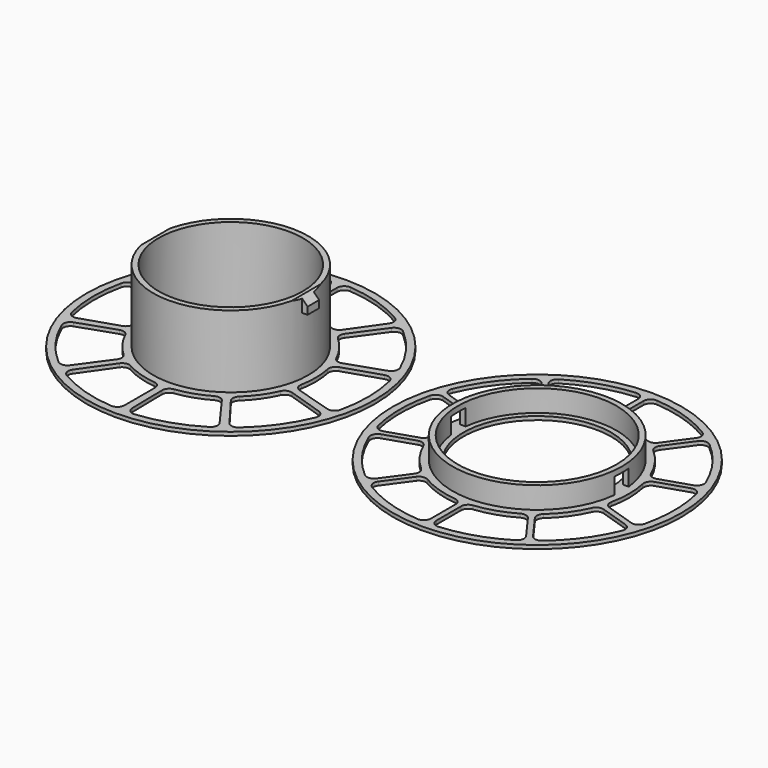
from build123d import *

# Parameters (mm, degrees)
F0_R      = 40
F0_R_2    = 20
F1_DEPTH  = 1
F2_R      = 21.5
F2_R_2    = 20
F3_DEPTH  = 20
F4_W      = 1.5
F4_H      = 4
F5_DEPTH  = 4
F6_SIZE   = 2
F7_R      = 40
F7_R_2    = 22
F8_DEPTH  = 1
F9_R      = 23.5
F9_R_2    = 22
F10_DEPTH = 6
F11_W     = 47
F11_H     = 5
F12_DEPTH = 4.5
F14_DEPTH = 5
F15_R     = 2
F16_COUNT = 10
F16_ANGLE = 324
F19_DEPTH = 5
F20_R     = 2
F21_COUNT = 10
F21_ANGLE = 324
F23_R     = 22
F23_R_2   = 20.5
F24_DEPTH = 1


with BuildPart() as f1:
    # F0 (on Top) → F1 (new body)
    with BuildSketch(Plane.XY):
        Circle(F0_R)
        Circle(F0_R_2, mode=Mode.SUBTRACT)
    extrude(amount=F1_DEPTH)

    # F2 (on face) → F3 (join)
    with BuildSketch(Plane.XY.offset(1)):
        Circle(F2_R)
        Circle(F2_R_2, mode=Mode.SUBTRACT)
    extrude(amount=F3_DEPTH)

    # F4 (on face) → F5 (join)
    with BuildSketch(Plane.XY.offset(21)):
        with Locations((-22.156775, 0)):
            Rectangle(F4_W, F4_H)
        with Locations((22.156775, 0)):
            Rectangle(F4_W, F4_H)
    extrude(amount=-F5_DEPTH)

    # F6
    f6_edges = [f1.edges().sort_by_distance(p)[0] for p in [
        (-22.906775, 0, 21),
        (22.906775, 0, 21),
    ]]
    chamfer(f6_edges, length=F6_SIZE)


with BuildPart() as f8:
    # F7 (on Top) → F8 (new body)
    with BuildSketch(Plane.XY):
        with Locations((85, 0)):
            Circle(F7_R)
        with Locations((85, 0)):
            Circle(F7_R_2, mode=Mode.SUBTRACT)
    extrude(amount=F8_DEPTH)

    # F9 (on face) → F10 (join)
    with BuildSketch(Plane.XY.offset(1)):
        with Locations((85, 0)):
            Circle(F9_R)
        with Locations((85, 0)):
            Circle(F9_R_2, mode=Mode.SUBTRACT)
    extrude(amount=F10_DEPTH)

    # F11 (on face) → F12 (cut)
    with BuildSketch(Plane.XY.offset(1)):
        with Locations((85, 0)):
            Rectangle(F11_W, F11_H)
    extrude(amount=F12_DEPTH, mode=Mode.SUBTRACT)


with BuildPart() as f14:
    # F13 (on face) → F14 (new body)
    with BuildSketch(Plane.XY.offset(1)):
        with BuildLine():
            ThreePointArc((21.177295, 31.551897), (11.42682, 36.241244), (0.75, 37.992598))
            Line((0.75, 37.992598), (0.75, 23.488029))
            ThreePointArc((0.75, 23.488029), (7.066586, 22.412348), (12.857816, 19.670449))
            Line((12.857816, 19.670449), (21.177295, 31.551897))
        make_face()
    extrude(amount=-F14_DEPTH)

    # F15
    f15_edges = [f14.edges().sort_by_distance(p)[0] for p in [
        (21.177295, 31.551897, -1.5),
        (12.857816, 19.670449, -1.5),
        (0.75, 23.488029, -1.5),
        (0.75, 37.992598, -1.5),
    ]]
    fillet(f15_edges, radius=F15_R)


with BuildPart() as f16_1:
    # F16: instance of F14
    add(f14.part.rotate(Axis((0, 0, 0), (0, 0, -1)), 1 * F16_ANGLE / (F16_COUNT - 1)))


with BuildPart() as f16_2:
    # F16: instance of F14
    add(f14.part.rotate(Axis((0, 0, 0), (0, 0, -1)), 2 * F16_ANGLE / (F16_COUNT - 1)))


with BuildPart() as f16_3:
    # F16: instance of F14
    add(f14.part.rotate(Axis((0, 0, 0), (0, 0, -1)), 3 * F16_ANGLE / (F16_COUNT - 1)))


with BuildPart() as f16_4:
    # F16: instance of F14
    add(f14.part.rotate(Axis((0, 0, 0), (0, 0, -1)), 4 * F16_ANGLE / (F16_COUNT - 1)))


with BuildPart() as f16_5:
    # F16: instance of F14
    add(f14.part.rotate(Axis((0, 0, 0), (0, 0, -1)), 5 * F16_ANGLE / (F16_COUNT - 1)))


with BuildPart() as f16_6:
    # F16: instance of F14
    add(f14.part.rotate(Axis((0, 0, 0), (0, 0, -1)), 6 * F16_ANGLE / (F16_COUNT - 1)))


with BuildPart() as f16_7:
    # F16: instance of F14
    add(f14.part.rotate(Axis((0, 0, 0), (0, 0, -1)), 7 * F16_ANGLE / (F16_COUNT - 1)))


with BuildPart() as f16_8:
    # F16: instance of F14
    add(f14.part.rotate(Axis((0, 0, 0), (0, 0, -1)), 8 * F16_ANGLE / (F16_COUNT - 1)))


with BuildPart() as f16_9:
    # F16: instance of F14
    add(f14.part.rotate(Axis((0, 0, 0), (0, 0, -1)), 9 * F16_ANGLE / (F16_COUNT - 1)))


with BuildPart() as f1_1:
    add(f1.part)

    # F17: cut F14, F16_1, F16_2, F16_3, F16_4, F16_5, F16_6, F16_8, F16_9, F16_7
    add(f14.part, mode=Mode.SUBTRACT)
    add(f16_1.part, mode=Mode.SUBTRACT)
    add(f16_2.part, mode=Mode.SUBTRACT)
    add(f16_3.part, mode=Mode.SUBTRACT)
    add(f16_4.part, mode=Mode.SUBTRACT)
    add(f16_5.part, mode=Mode.SUBTRACT)
    add(f16_6.part, mode=Mode.SUBTRACT)
    add(f16_8.part, mode=Mode.SUBTRACT)
    add(f16_9.part, mode=Mode.SUBTRACT)
    add(f16_7.part, mode=Mode.SUBTRACT)


with BuildPart() as f19:
    # F18 (on face) → F19 (new body)
    with BuildSketch(Plane.XY.offset(1)):
        with BuildLine():
            ThreePointArc((106.724726, 31.177496), (96.742646, 36.140148), (85.75, 37.992598))
            Line((85.75, 37.992598), (85.75, 25.488968))
            ThreePointArc((85.75, 25.488968), (92.879933, 24.251941), (99.375277, 21.061847))
            Line((99.375277, 21.061847), (106.724726, 31.177496))
        make_face()
    extrude(amount=-F19_DEPTH)

    # F20
    f20_edges = [f19.edges().sort_by_distance(p)[0] for p in [
        (85.75, 37.992598, -1.5),
        (85.75, 25.488968, -1.5),
        (106.724726, 31.177496, -1.5),
        (99.375277, 21.061847, -1.5),
    ]]
    fillet(f20_edges, radius=F20_R)


with BuildPart() as f21_1:
    # F21: instance of F19
    add(f19.part.rotate(Axis((85, 0, 0), (0, 0, -1)), 1 * F21_ANGLE / (F21_COUNT - 1)))


with BuildPart() as f21_2:
    # F21: instance of F19
    add(f19.part.rotate(Axis((85, 0, 0), (0, 0, -1)), 2 * F21_ANGLE / (F21_COUNT - 1)))


with BuildPart() as f21_3:
    # F21: instance of F19
    add(f19.part.rotate(Axis((85, 0, 0), (0, 0, -1)), 3 * F21_ANGLE / (F21_COUNT - 1)))


with BuildPart() as f21_4:
    # F21: instance of F19
    add(f19.part.rotate(Axis((85, 0, 0), (0, 0, -1)), 4 * F21_ANGLE / (F21_COUNT - 1)))


with BuildPart() as f21_5:
    # F21: instance of F19
    add(f19.part.rotate(Axis((85, 0, 0), (0, 0, -1)), 5 * F21_ANGLE / (F21_COUNT - 1)))


with BuildPart() as f21_6:
    # F21: instance of F19
    add(f19.part.rotate(Axis((85, 0, 0), (0, 0, -1)), 6 * F21_ANGLE / (F21_COUNT - 1)))


with BuildPart() as f21_7:
    # F21: instance of F19
    add(f19.part.rotate(Axis((85, 0, 0), (0, 0, -1)), 7 * F21_ANGLE / (F21_COUNT - 1)))


with BuildPart() as f21_8:
    # F21: instance of F19
    add(f19.part.rotate(Axis((85, 0, 0), (0, 0, -1)), 8 * F21_ANGLE / (F21_COUNT - 1)))


with BuildPart() as f21_9:
    # F21: instance of F19
    add(f19.part.rotate(Axis((85, 0, 0), (0, 0, -1)), 9 * F21_ANGLE / (F21_COUNT - 1)))


with BuildPart() as f8_1:
    add(f8.part)

    # F22: cut F19, F21_1, F21_2, F21_3, F21_4, F21_5, F21_6, F21_7, F21_8, F21_9
    add(f19.part, mode=Mode.SUBTRACT)
    add(f21_1.part, mode=Mode.SUBTRACT)
    add(f21_2.part, mode=Mode.SUBTRACT)
    add(f21_3.part, mode=Mode.SUBTRACT)
    add(f21_4.part, mode=Mode.SUBTRACT)
    add(f21_5.part, mode=Mode.SUBTRACT)
    add(f21_6.part, mode=Mode.SUBTRACT)
    add(f21_7.part, mode=Mode.SUBTRACT)
    add(f21_8.part, mode=Mode.SUBTRACT)
    add(f21_9.part, mode=Mode.SUBTRACT)

    # F23 (on face) → F24 (join)
    with BuildSketch(Plane(origin=(0, 0, 0), x_dir=(1, 0, 0), z_dir=(0, 0, -1))):
        with Locations((85, 0)):
            Circle(F23_R)
        with Locations((85, 0)):
            Circle(F23_R_2, mode=Mode.SUBTRACT)
    extrude(amount=-F24_DEPTH)


solid = Compound([f1_1.part, f8_1.part])
